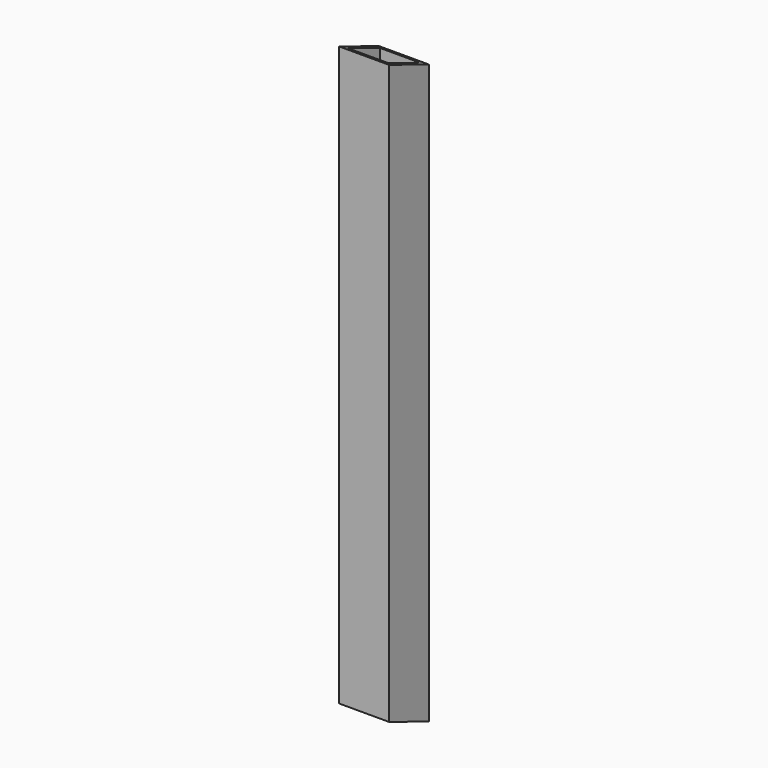
from build123d import *

# Parameters (mm, degrees)
F0_W     = 31.75
F0_H     = 31.75
F0_W_2   = 25.4
F0_H_2   = 25.4
F1_DEPTH = 190.5
F3_DEPTH = 31.75
F5_DEPTH = 31.75


with BuildPart() as f1:
    # F0 (on Top) → F1 (new body, symmetric)
    with BuildSketch(Plane.XY):
        Rectangle(F0_W, F0_H)
        Rectangle(F0_W_2, F0_H_2, mode=Mode.SUBTRACT)
    extrude(amount=F1_DEPTH, both=True)

    # F2 (on face) → F3 (cut)
    with BuildSketch(Plane(origin=(-15.875, 0, 0), x_dir=(0, -1, 0), z_dir=(-1, 0, 0))):
        Polygon((15.875, 190.5), (-15.875, 190.5), (-15.875, 177.8), align=None)
    extrude(amount=-F3_DEPTH, mode=Mode.SUBTRACT)

    # F4 (on face) → F5 (cut)
    with BuildSketch(Plane(origin=(-15.875, 0, 0), x_dir=(0, -1, 0), z_dir=(-1, 0, 0))):
        Polygon((-15.875, -190.5), (15.875, -190.5), (15.875, -177.8), align=None)
    extrude(amount=-F5_DEPTH, mode=Mode.SUBTRACT)


solid = f1.part
